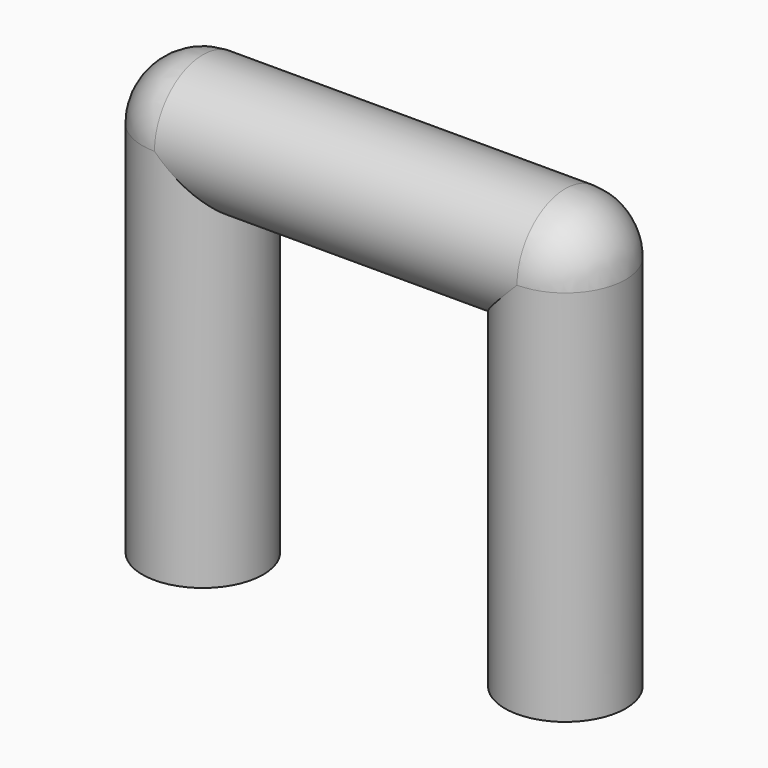
from build123d import *

# Parameters (mm, degrees)
CYLINDER003_R     = 0.4
CYLINDER003_DEPTH = 2.4
CYLINDER004_R     = 0.4
CYLINDER004_DEPTH = 2.5
SPHERE_ANGLE      = 90
SPHERE001_ANGLE   = 90
CYLINDER002_R     = 0.4
CYLINDER002_DEPTH = 2.5


with BuildPart() as cylinder003:
    # Cylinder003 → Cylinder003 (new body)
    with BuildSketch(Plane(origin=(0, 0, 0.4), x_dir=(0, 0, -1), z_dir=(1, 0, 0))):
        Circle(CYLINDER003_R)
    extrude(amount=CYLINDER003_DEPTH)


with BuildPart() as cylinder004:
    # Cylinder004 → Cylinder004 (new body)
    with BuildSketch(Plane(origin=(2.4, 0, -2.1), x_dir=(1, 0, 0), z_dir=(0, 0, 1))):
        Circle(CYLINDER004_R)
    extrude(amount=CYLINDER004_DEPTH)


with BuildPart() as sphere:
    # Sphere → Sphere (revolve)
    with BuildSketch(Plane(origin=(0, 0, 0.4), x_dir=(-1, 0, 0), z_dir=(0, 0, -1))):
        with BuildLine():
            ThreePointArc((0, -0.4), (0.4, 0), (0, 0.4))
            Line((0, 0.4), (0, -0.4))
        make_face()
    revolve(axis=Axis((0, 0, 0.4), (0, 1, 0)), revolution_arc=SPHERE_ANGLE)


with BuildPart() as sphere001:
    # Sphere001 → Sphere001 (revolve)
    with BuildSketch(Plane(origin=(2.4, 0, 0.4), x_dir=(1, 0, 0), z_dir=(0, 0, -1))):
        with BuildLine():
            ThreePointArc((0, -0.4), (0.4, 0), (0, 0.4))
            Line((0, 0.4), (0, -0.4))
        make_face()
    revolve(axis=Axis((2.4, 0, 0.4), (0, -1, 0)), revolution_arc=SPHERE001_ANGLE)


with BuildPart() as jumper_2_40mm:
    # Cylinder002 → Cylinder002 (new body)
    with BuildSketch(Plane.XY.offset(-2.1)):
        Circle(CYLINDER002_R)
    extrude(amount=CYLINDER002_DEPTH)

    # Fusion001: union Cylinder003, Cylinder004, Sphere, Sphere001
    add(cylinder003.part)
    add(cylinder004.part)
    add(sphere.part)
    add(sphere001.part)


solid = jumper_2_40mm.part
